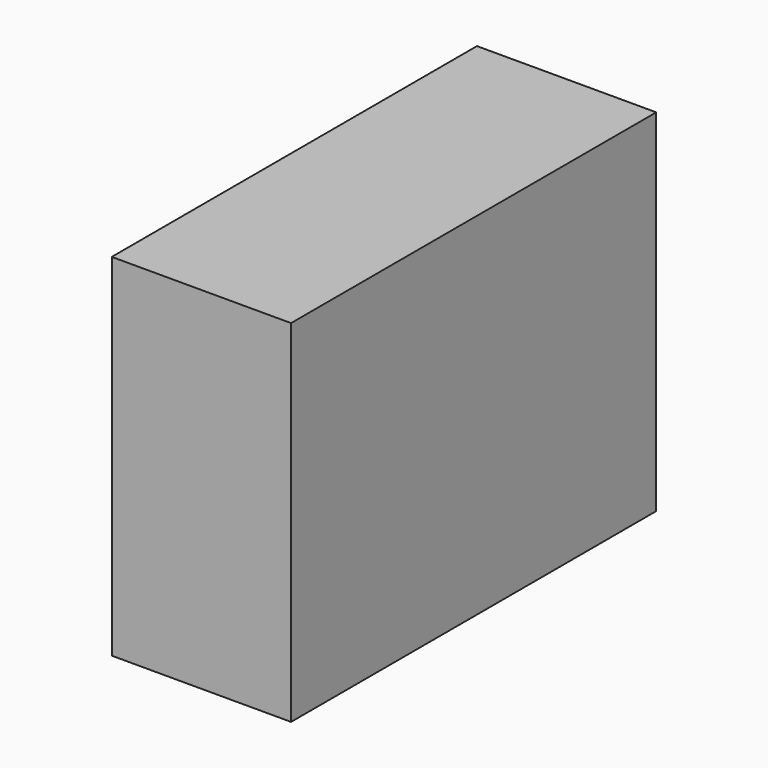
from build123d import *

# Parameters (mm, degrees)
F0_W     = 194.6072131395
F0_H     = 115.8261597157
F1_DEPTH = 100
F2_DEPTH = 60
F3_DEPTH = 80


with BuildPart() as f1:
    # F0 (on Right) → F1 (new body)
    with BuildSketch(Plane.YZ):
        with Locations((10.4003921151, 1.1784434319)):
            Rectangle(F0_W, F0_H)
    extrude(amount=F1_DEPTH)

    # F2 (add): a face of the model
    f2_faces = [f1.faces().sort_by_distance(p)[0] for p in [
        (50, 107.7039986849, 1.1784434319),
    ]]
    extrude(f2_faces, amount=F2_DEPTH)

    # F3 (add): a face of the model
    f3_faces = [f1.faces().sort_by_distance(p)[0] for p in [
        (50, 40.4003921151, 59.0915232897),
    ]]
    extrude(f3_faces, amount=F3_DEPTH)


solid = f1.part
